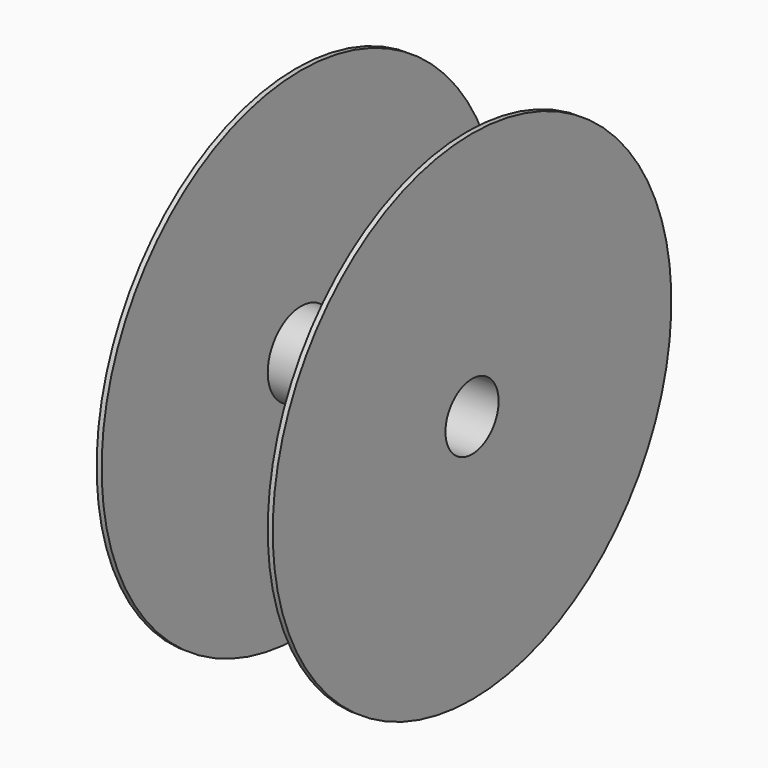
from build123d import *

# Parameters (mm, degrees)
F3_D = 40


with BuildPart() as f1:
    # F0 (on Front) → F1 (revolve)
    with BuildSketch(Plane.XZ):
        Polygon((50, 25), (0, 25), (-50, 25), (-50, 150), (-53, 150), (-53, 0), (0, 0), (53, 0), (53, 150), (50, 150), align=None)
    revolve(axis=Axis((58.566779, 0, 0), (1, 0, 0)))

    # F3 (through all)
    with Locations(Plane.YZ.offset(53)):
        with Locations((0, 0)):
            Hole(F3_D / 2)


solid = f1.part
